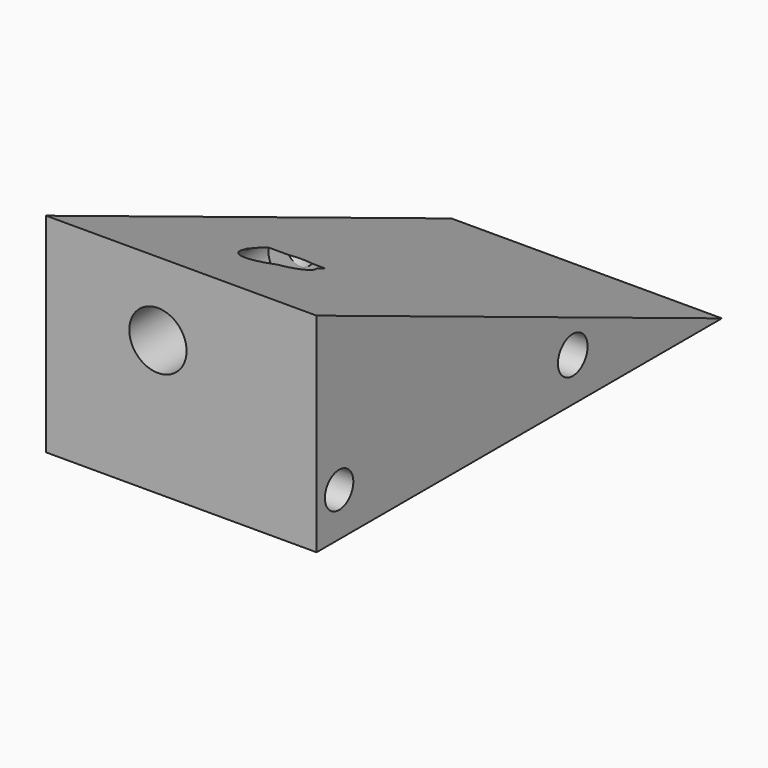
from build123d import *

# Parameters (mm, degrees)
F1_DEPTH = 25.4
F2_DEPTH = 12.192
F3_R     = 2.4676693698
F3_R_2   = 2.5740966664
F4_DEPTH = 43.18
F5_R     = 4.0713593192
F6_DEPTH = 9.144
F7_R     = 3.9791108566
F8_DEPTH = 24.13


with BuildPart() as f1:
    # F0 (on Right) → F1 (new body)
    with BuildSketch(Plane.YZ):
        Polygon((25.9079989046, 5.6388000958), (-44.5008017123, 34.5948003232), (-44.5008017123, 5.6388000958), align=None)
    extrude(amount=F1_DEPTH)

    # F2 (add): a face of the model
    f2_faces = [f1.faces().sort_by_distance(p)[0] for p in [
        (0, -21.0312015067, 15.2908001716),
    ]]
    extrude(f2_faces, amount=F2_DEPTH)

    # F3 (on face) → F4 (cut)
    with BuildSketch(Plane.YZ.offset(25.4)):
        with Locations((-40.5871495605, 11.6919511929)):
            Circle(F3_R)
        with Locations((0, 11.6919511929)):
            Circle(F3_R_2)
    extrude(amount=-F4_DEPTH, mode=Mode.SUBTRACT)

    # F5 (on face) → F6 (cut)
    with BuildSketch(Plane(origin=(0, 5.731464716, 13.9365089537), x_dir=(1, 0, 0), z_dir=(0, 0.3803470345, 0.9248438427))):
        with Locations((3.8493340835, -31.9517701864)):
            Circle(F5_R)
    extrude(amount=-F6_DEPTH, mode=Mode.SUBTRACT)

    # F7 (on face) → F8 (cut)
    with BuildSketch(Plane.XZ.offset(44.5008017123)):
        with Locations((3.3528024796, 24.3832562119)):
            Circle(F7_R)
    extrude(amount=-F8_DEPTH, mode=Mode.SUBTRACT)


solid = f1.part
